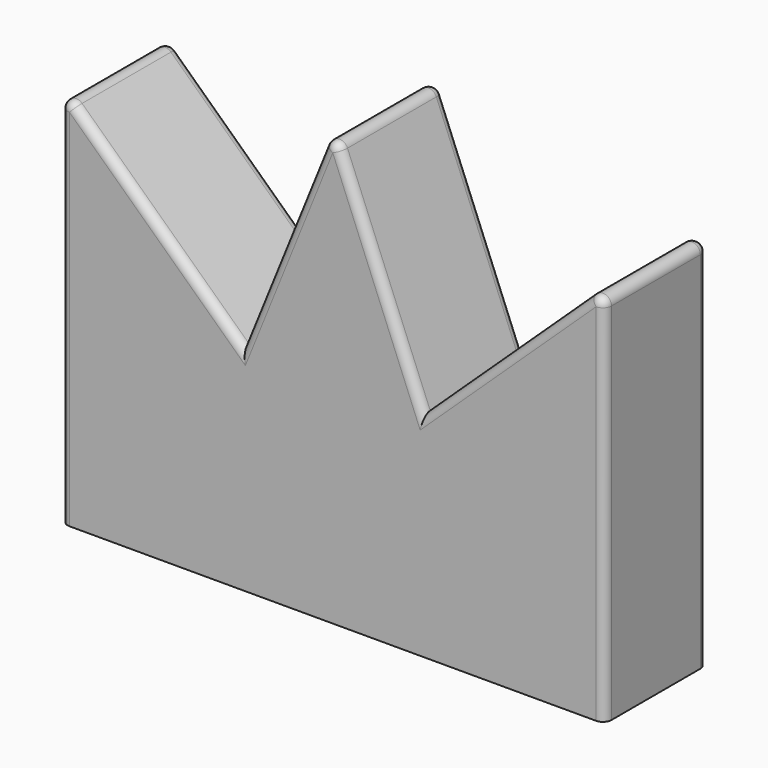
from build123d import *

# Parameters (mm, degrees)
F1_DEPTH = 3
F2_R     = 0.2


with BuildPart() as f1:
    # F0 (on Front) → F1 (new body)
    with BuildSketch(Plane.XZ):
        Polygon((0, 5), (0, 0), (12.735, 0), (12.735, 5), (12.735, 9), (8.49, 5), (6.3675, 10.238199), (4.245, 5), (0, 9), (0, 6.5), align=None)
    extrude(amount=F1_DEPTH)

    # F2
    f2_edges = [f1.edges().sort_by_distance(p)[0] for p in [
        (0, -1.5, 9),
        (6.3675, -1.5, 10.238199),
        (12.735, 0, 4.5),
        (7.42875, -3, 7.619099),
        (5.30625, -3, 7.619099),
        (2.1225, -3, 7),
        (10.6125, -3, 7),
        (10.6125, 0, 7),
        (7.42875, 0, 7.619099),
        (5.30625, 0, 7.619099),
        (2.1225, 0, 7),
        (0, 0, 4.5),
        (12.735, -3, 4.5),
        (0, -3, 4.5),
        (12.735, -1.5, 9),
    ]]
    fillet(f2_edges, radius=F2_R)


solid = f1.part
